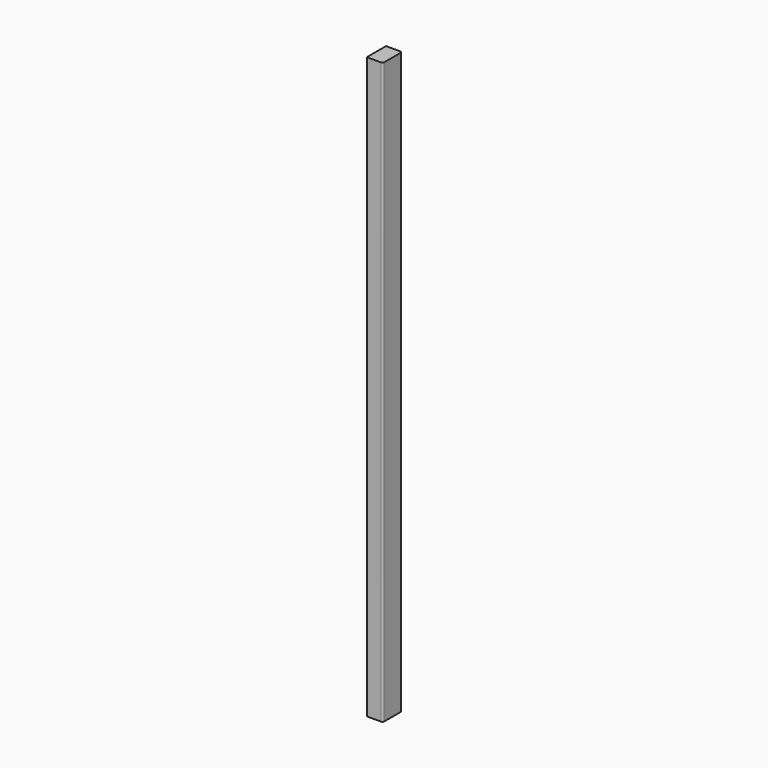
from build123d import *

# Parameters (mm, degrees)
F0_W     = 40
F0_H     = 1450
F1_DEPTH = 60
F2_R     = 4
F3_R     = 4


with BuildPart() as f1:
    # F0 (on Front) → F1 (new body)
    with BuildSketch(Plane.XZ):
        Rectangle(F0_W, F0_H)
    extrude(amount=F1_DEPTH)

    # F2
    f2_edges = [f1.edges().sort_by_distance(p)[0] for p in [
        (20, -60, 0),
    ]]
    fillet(f2_edges, radius=F2_R)

    # F3
    f3_edges = [f1.edges().sort_by_distance(p)[0] for p in [
        (20, 0, 0),
    ]]
    fillet(f3_edges, radius=F3_R)


solid = f1.part
